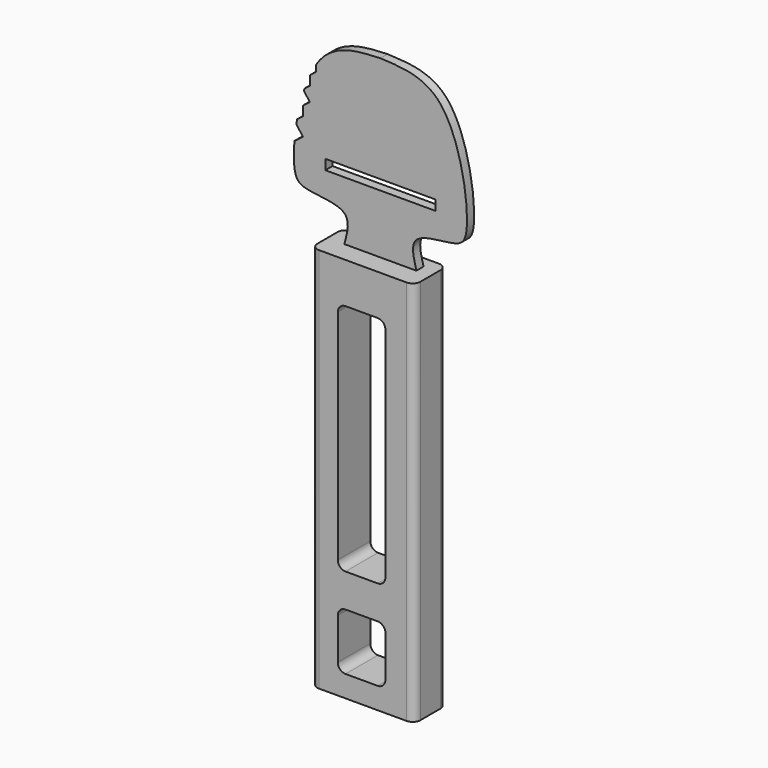
from build123d import *

# Parameters (mm, degrees)
F1_DEPTH  = 127
F4_DEPTH  = 25.4
F5_W      = 13.6487651616
F5_H      = 2.9639556769
F5_W_2    = 33.8865872473
F5_W_3    = 13.4134404361
F6_DEPTH  = 63.5
F9_DEPTH  = 25.4
F12_DEPTH = 25.4
F13_DEPTH = 101.6
F15_DEPTH = 101.6


with BuildPart() as f1:
    # F0 (on Top) → F1 (new body)
    with BuildSketch(Plane.XY):
        with BuildLine():
            Line((13.9326469666, 3.7203530321), (-14.8739402807, 3.7203530321))
            ThreePointArc((-14.8739402807, 3.7203530321), (-16.6699915049, 2.9764042563), (-17.4139402807, 1.1803530321))
            Line((-17.4139402807, 1.1803530321), (-17.4139402807, -7.1082643858))
            ThreePointArc((-17.4139402807, -7.1082643858), (-16.6699915049, -8.90431561), (-14.8739402807, -9.6482643858))
            Line((-14.8739402807, -9.6482643858), (13.9326469666, -9.6482643858))
            ThreePointArc((13.9326469666, -9.6482643858), (15.7286981908, -8.90431561), (16.4726469666, -7.1082643858))
            Line((16.4726469666, -7.1082643858), (16.4726469666, 1.1803530321))
            ThreePointArc((16.4726469666, 1.1803530321), (15.7286981908, 2.9764042563), (13.9326469666, 3.7203530321))
        make_face()
    extrude(amount=F1_DEPTH)

    # F3 (on offset) → F4 (cut)
    with BuildSketch(Plane.XZ.offset(9.6482643858)):
        with BuildLine():
            Line((4.460873331, 113.6173714423), (-6.1277493528, 113.6173714423))
            ThreePointArc((-6.1277493528, 113.6173714423), (-7.923800577, 112.8734226665), (-8.6677493528, 111.0773714423))
            Line((-8.6677493528, 111.0773714423), (-8.6677493528, 39.2906220937))
            ThreePointArc((-8.6677493528, 39.2906220937), (-7.923800577, 37.4945708695), (-6.1277493528, 36.7506220937))
            Line((-6.1277493528, 36.7506220937), (4.460873331, 36.7506220937))
            ThreePointArc((4.460873331, 36.7506220937), (6.2569245552, 37.4945708695), (7.000873331, 39.2906220937))
            Line((7.000873331, 39.2906220937), (7.000873331, 111.0773714423))
            ThreePointArc((7.000873331, 111.0773714423), (6.2569245552, 112.8734226665), (4.460873331, 113.6173714423))
        make_face()
        with BuildLine():
            Line((4.460873331, 25.7492475212), (-6.1277493528, 25.7492475212))
            ThreePointArc((-6.1277493528, 25.7492475212), (-7.923800577, 25.0052987454), (-8.6677493528, 23.2092475212))
            Line((-8.6677493528, 23.2092475212), (-8.6677493528, 9.6202476257))
            ThreePointArc((-8.6677493528, 9.6202476257), (-7.923800577, 7.8241964015), (-6.1277493528, 7.0802476257))
            Line((-6.1277493528, 7.0802476257), (4.460873331, 7.0802476257))
            ThreePointArc((4.460873331, 7.0802476257), (6.2569245552, 7.8241964015), (7.000873331, 9.6202476257))
            Line((7.000873331, 9.6202476257), (7.000873331, 23.2092475212))
            ThreePointArc((7.000873331, 23.2092475212), (6.2569245552, 25.0052987454), (4.460873331, 25.7492475212))
        make_face()
    extrude(amount=-F4_DEPTH, mode=Mode.SUBTRACT)

    # F5 (on face) → F6 (join)
    with BuildSketch(Plane.XY.offset(127)):
        with Locations((-24.2383228615, -1.4819778384)):
            Rectangle(F5_W, F5_H)
        with Locations((-0.470646657, -1.4819778384)):
            Rectangle(F5_W_2, F5_H)
        with Locations((23.1793671846, -1.4819778384)):
            Rectangle(F5_W_3, F5_H)
    extrude(amount=F6_DEPTH)

    # F8 (on face) → F9 (cut)
    with BuildSketch(Plane.XZ.offset(2.9639556769)):
        with BuildLine():
            Line((-17.4139402807, 127), (-11.8372775614, 127))
            add(Edge.make_bspline(
                [(-11.8372775614, 127), (-10.8817701647, 130.5044720533), (-8.7932290733, 138.1645214806), (-24.7768549242, 138.1378754062), (-30.5647678135, 142.5211907114), (-24.5524583172, 183.6506969004), (-7.4773155064, 184.3714849517), (0, 184.6871227026)],
                knots=[0, 0, 0, 0, 0.1527807855, 0.3339471255, 0.4598752587, 0.7634758814, 1, 1, 1, 1], degree=3))
            add(Edge.make_bspline(
                [(11.8372775614, 127), (10.8817701647, 130.5044720533), (8.7932290733, 138.1645214806), (24.7768549242, 138.1378754062), (30.5647678135, 142.5211907114), (24.5524583172, 183.6506969004), (7.4773155064, 184.3714849517), (0, 184.6871227026)],
                knots=[0, 0, 0, 0, 0.1527807855, 0.3339471255, 0.4598752587, 0.7634758814, 1, 1, 1, 1], degree=3))
            Line((11.8372775614, 127), (16.4726469666, 127))
            Line((16.4726469666, 127), (29.8860874027, 127))
            Line((29.8860874027, 127), (29.8860874027, 190.5))
            Line((29.8860874027, 190.5), (-31.0627054423, 190.5))
            Line((-31.0627054423, 190.5), (-31.0627054423, 127))
            Line((-31.0627054423, 127), (-17.4139402807, 127))
        make_face()
    extrude(amount=-F9_DEPTH, mode=Mode.SUBTRACT)

    # F11 (on offset) → F12 (cut)
    with BuildSketch(Plane.XZ.offset(28.3639556769)):
        Polygon((18.1195400655, 149.6754139662), (0, 149.6754139662), (-18.1195400655, 149.6754139662), (-18.1195400655, 146.3667750359), (0, 146.3667750359), (18.1195400655, 146.3667750359), align=None)
    extrude(amount=-F12_DEPTH, mode=Mode.SUBTRACT)

    # F11 (on offset) → F13 (cut)
    with BuildSketch(Plane.XZ.offset(28.3639556769)):
        Polygon((18.1195400655, 149.6754139662), (0, 149.6754139662), (-18.1195400655, 149.6754139662), (-18.1195400655, 146.3667750359), (0, 146.3667750359), (18.1195400655, 146.3667750359), align=None)
    extrude(amount=-F13_DEPTH, mode=Mode.SUBTRACT)

    # F14 (on offset) → F15 (cut)
    with BuildSketch(Plane.XZ.offset(28.3639556769)):
        Polygon((-30.7504810754, 151.5449881554), (-28.2810404897, 151.5449881554), (-25.4877414554, 153.6810398102), (-28.3233742751, 157.3891759869), (-25.4877414554, 159.5576005282), (-25.4877414554, 162.7181917429), (-23.2128473329, 164.4578162139), (-25.4877414554, 167.4326785217), (-23.2128473329, 169.1723029928), (-23.2128473329, 172.2482740879), (-21.1414387494, 173.8322920102), (-21.1414387494, 176.5203922987), (-30.7504810754, 169.1723029928), align=None)
    extrude(amount=-F15_DEPTH, mode=Mode.SUBTRACT)


solid = f1.part
